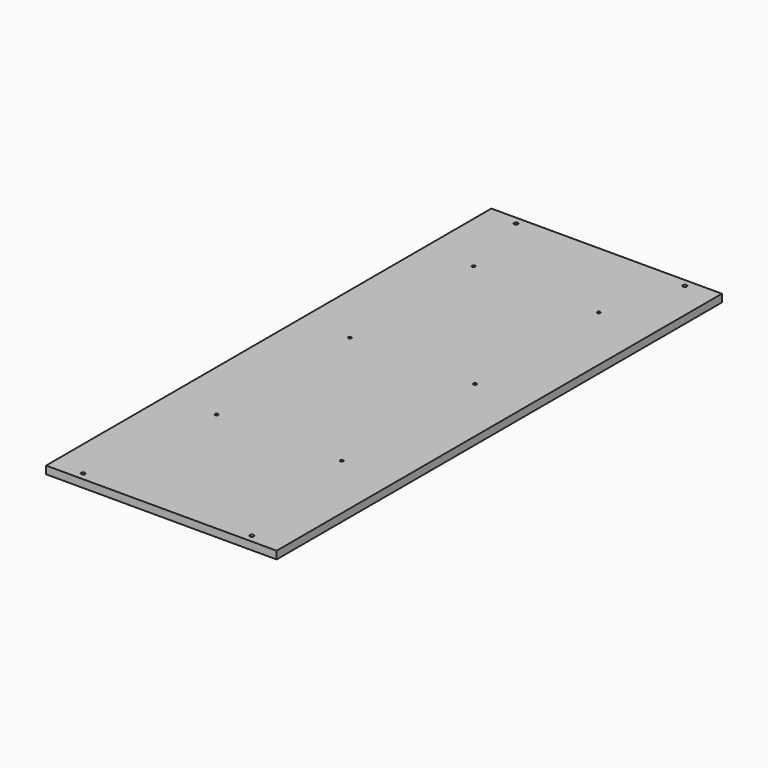
from build123d import *

# Parameters (mm, degrees)
F0_W     = 378.7648
F0_H     = 914.4
F1_DEPTH = 12.7
F3_DEPTH = 12.701
F5_D     = 5.08


with BuildPart() as f1:
    # F0 (on Top) → F1 (new body)
    with BuildSketch(Plane.XY):
        with Locations((-4.132511, 70.025934)):
            Rectangle(F0_W, F0_H)
    extrude(amount=F1_DEPTH)

    # F2 (on face) → F3 (cut, through all)
    with BuildSketch(Plane.XY.offset(12.7)):
        with BuildLine():
            ThreePointArc((-142.714911, 517.700934), (-144.959975, 512.28087), (-139.539911, 514.525934))
            ThreePointArc((-139.539911, 514.525934), (-140.469847, 516.770998), (-142.714911, 517.700934))
        make_face()
        with BuildLine():
            ThreePointArc((134.449889, 517.700934), (132.204825, 512.28087), (137.624889, 514.525934))
            ThreePointArc((137.624889, 514.525934), (136.694953, 516.770998), (134.449889, 517.700934))
        make_face()
        with BuildLine():
            ThreePointArc((-142.714911, -377.649066), (-140.469847, -376.71913), (-139.539911, -374.474066))
            ThreePointArc((-139.539911, -374.474066), (-144.959975, -372.229002), (-142.714911, -377.649066))
        make_face()
        with BuildLine():
            ThreePointArc((134.449889, -377.649066), (136.694953, -376.71913), (137.624889, -374.474066))
            ThreePointArc((137.624889, -374.474066), (132.204825, -372.229002), (134.449889, -377.649066))
        make_face()
    extrude(amount=-F3_DEPTH, mode=Mode.SUBTRACT)

    # F5 (through all)
    with Locations(Plane.XY.offset(12.7)):
        with Locations((-111.165754, 387.934387), (94.422869, 387.934387), (94.422869, 133.59797), (-111.165754, 133.59797), (-111.165754, -139.813676), (94.422869, -139.813676)):
            Hole(F5_D / 2)


solid = f1.part
